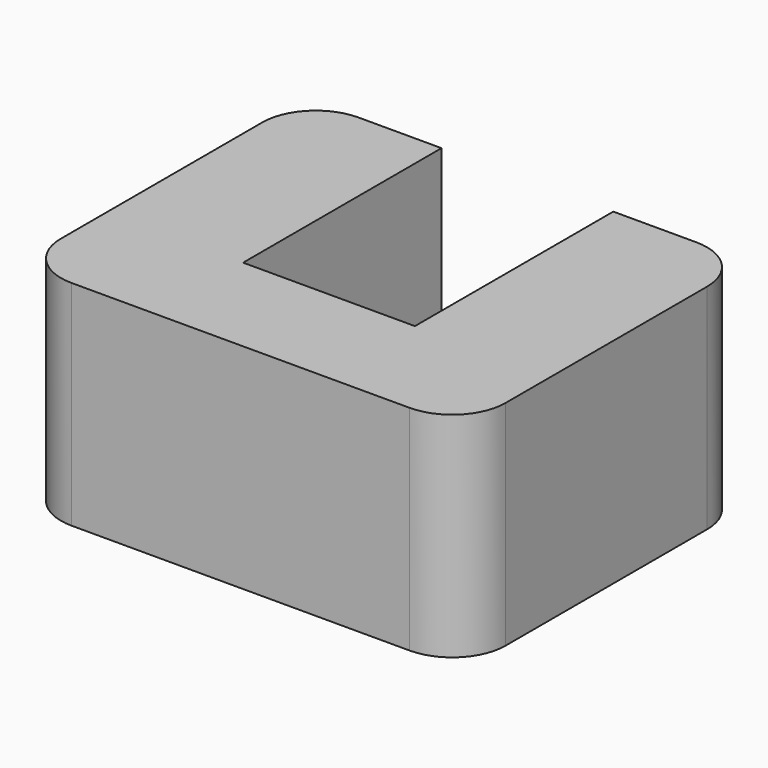
from build123d import *

# Parameters (mm, degrees)
F1_DEPTH = 50.8


with BuildPart() as f1:
    # F0 (on Top) → F1 (new body)
    with BuildSketch(Plane.XY):
        with BuildLine():
            Line((-20.421574, 42.61367), (-40.162275, 42.61367))
            ThreePointArc((-40.162275, 42.61367), (-49.142532, 38.893926), (-52.862275, 29.91367))
            Line((-52.862275, 29.91367), (-52.862275, -29.91367))
            ThreePointArc((-52.862275, -29.91367), (-49.142532, -38.893926), (-40.162275, -42.61367))
            Line((-40.162275, -42.61367), (40.162275, -42.61367))
            ThreePointArc((40.162275, -42.61367), (49.142532, -38.893926), (52.862275, -29.91367))
            Line((52.862275, -29.91367), (52.862275, 29.91367))
            ThreePointArc((52.862275, 29.91367), (49.142532, 38.893926), (40.162275, 42.61367))
            Line((40.162275, 42.61367), (20.421574, 42.61367))
            Line((20.421574, 42.61367), (20.421574, -16.341066))
            Line((20.421574, -16.341066), (-20.421574, -16.341066))
            Line((-20.421574, -16.341066), (-20.421574, 42.61367))
        make_face()
    extrude(amount=F1_DEPTH)


solid = f1.part
